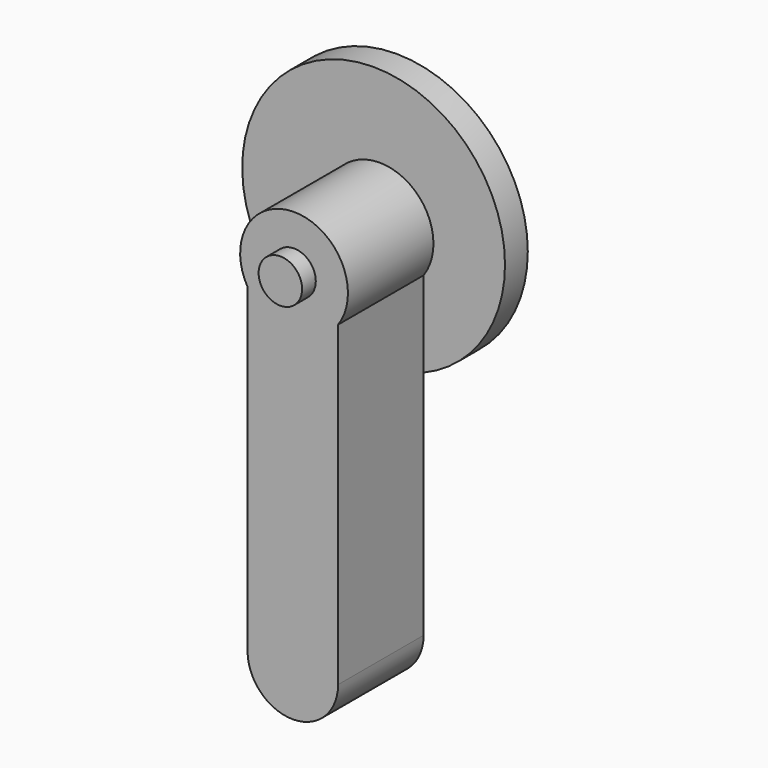
from build123d import *

# Parameters (mm, degrees)
F0_R     = 23.414747
F1_DEPTH = 5.08
F3_DEPTH = 19.05
F4_R     = 3.876648
F5_DEPTH = 3.048


with BuildPart() as f1:
    # F0 (on Front) → F1 (new body)
    with BuildSketch(Plane.XZ):
        Circle(F0_R)
    extrude(amount=F1_DEPTH)

    # F2 (on face) → F3 (join)
    with BuildSketch(Plane.XZ.offset(5.08)):
        with BuildLine():
            ThreePointArc((8.908676, -21.653772), (0.895358, -23.397622), (-7.227794, -22.271268))
            Line((-7.227794, -22.271268), (-7.227794, -62.864996))
            ThreePointArc((-7.227794, -62.864996), (0.840441, -70.933231), (8.908676, -62.864996))
            Line((8.908676, -62.864996), (8.908676, -21.653772))
        make_face()
        with BuildLine():
            ThreePointArc((8.908676, -6.387353), (1.456869, 8.743082), (-7.227794, -5.715))
            Line((-7.227794, -5.715), (-7.227794, -22.271268))
            ThreePointArc((-7.227794, -22.271268), (0.895358, -23.397622), (8.908676, -21.653772))
            Line((8.908676, -21.653772), (8.908676, -6.387353))
        make_face()
    extrude(amount=F3_DEPTH)

    # F4 (on face) → F5 (join)
    with BuildSketch(Plane.XZ.offset(24.13)):
        with Locations((1.056986, -0.854104)):
            Circle(F4_R)
    extrude(amount=F5_DEPTH)


solid = f1.part
